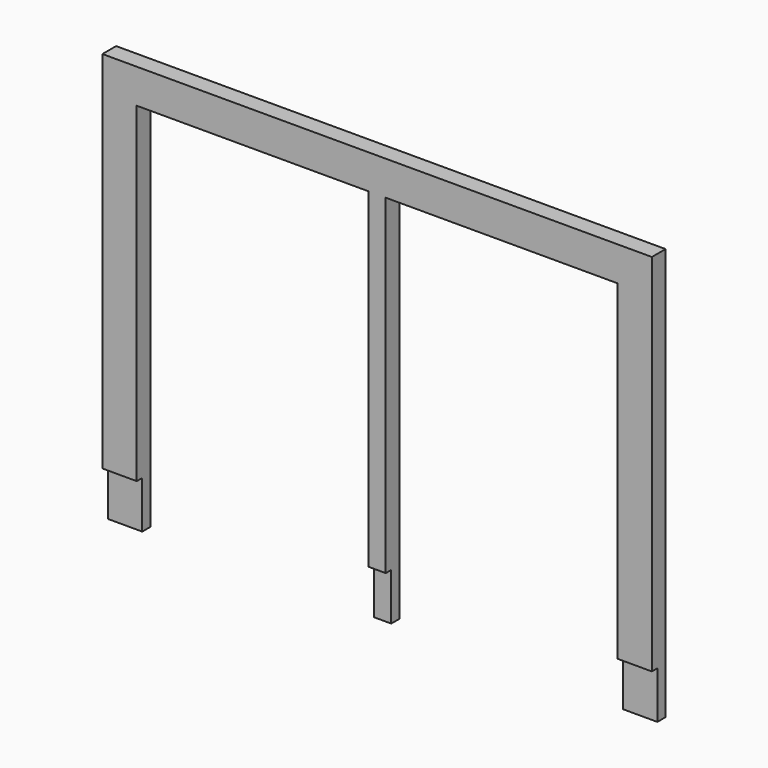
from build123d import *

# Parameters (mm, degrees)
F0_W          = 25.4
F0_H          = 609.6
F1_DEPTH      = 406.4
F2_W          = 342.9
F2_H          = 558.8
F3_DEPTH      = 15.241
F3_DEPTH_BACK = 10.161
F4_W          = 10.16
F4_H          = 69.85
F5_DEPTH      = 406.401
F5_DEPTH_BACK = 406.401


with BuildPart() as f1:
    # F0 (on Right) → F1 (new body, symmetric)
    with BuildSketch(Plane.YZ):
        with Locations((2.54, 234.95)):
            Rectangle(F0_W, F0_H)
    extrude(amount=F1_DEPTH, both=True)

    # F2 (on Front) → F3 (cut, two sides)
    with BuildSketch(Plane.XZ) as f3_sk:
        with Locations((-184.15, 209.55)):
            Rectangle(F2_W, F2_H)
        with Locations((184.15, 209.55)):
            Rectangle(F2_W, F2_H)
    extrude(amount=-F3_DEPTH, mode=Mode.SUBTRACT)
    extrude(f3_sk.sketch, amount=F3_DEPTH_BACK, mode=Mode.SUBTRACT)

    # F4 (on Right) → F5 (cut, two sides)
    with BuildSketch(Plane.YZ) as f5_sk:
        with Locations((-5.08, -34.925)):
            Rectangle(F4_W, F4_H)
    extrude(amount=-F5_DEPTH, mode=Mode.SUBTRACT)
    extrude(f5_sk.sketch, amount=F5_DEPTH_BACK, mode=Mode.SUBTRACT)


solid = f1.part
